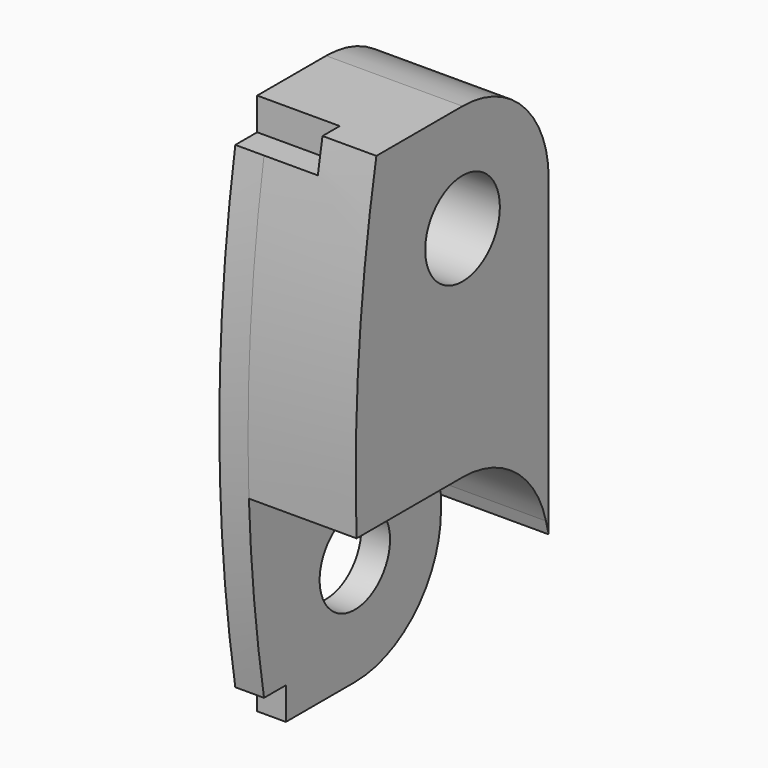
from build123d import *

# Parameters (mm, degrees)
SKETCH034_R          = 2.45
PAD017_DEPTH         = 1.6
SKETCH035_R          = 2.6
PAD018_DEPTH         = 6
SKETCH061_W          = 1.7771358599
SKETCH061_H          = 3.8
POCKET023_DEPTH      = 1.6
POCKET023_DEPTH_BACK = 3


with BuildPart() as part:
    # Sketch034 → Pad017 (new body)
    with BuildSketch(Plane.YZ.offset(8.7)):
        with BuildLine():
            ThreePointArc((-6, 6), (-7.4371881489, -9.1), (-6, -24.2))
            Line((-6, -24.2), (0, -24.2))
            ThreePointArc((0, -24.2), (4.2426406871, -22.4426406871), (6, -18.2))
            Line((6, 0), (6, -18.2))
            ThreePointArc((6, 0), (4.2426406871, 4.2426406871), (0, 6))
            Line((-6, 6), (0, 6))
        make_face()
        Circle(SKETCH034_R, mode=Mode.SUBTRACT)
        with Locations((0, -18.2)):
            Circle(SKETCH034_R, mode=Mode.SUBTRACT)
    extrude(amount=-PAD017_DEPTH)

    # Sketch035 → Pad018 (join)
    with BuildSketch(Plane.YZ.offset(8.7)):
        with BuildLine():
            ThreePointArc((5.8114989668, -16.707860677), (3.6774423219, -13.4590699257), (0, -12.2))
            Line((-7.3771358599, -12.2), (0, -12.2))
            ThreePointArc((-6, 6), (-7.2090239265, -3.0606187573), (-7.3771358599, -12.2))
            Line((-6, 6), (0, 6))
            ThreePointArc((6, 0), (4.2426406871, 4.2426406871), (0, 6))
            Line((6, 0), (6, -17.4420237293))
            Line((6, -17.4420237293), (5.8114989668, -16.707860677))
        make_face()
        Circle(SKETCH035_R, mode=Mode.SUBTRACT)
    extrude(amount=PAD018_DEPTH)

    # Sketch061 → Pocket023 (cut, two sides)
    with BuildSketch(Plane.YZ.offset(8.7)) as pocket023_sk:
        with BuildLine():
            ThreePointArc((-6.3244944235, -22.4), (-6.167388681, -23.3009268767), (-6, -24.2))
            Line((-6, -24.2), (-4.8, -24.2))
            Line((-4.8, -24.2), (-4.8, -22.4))
            Line((-4.8, -22.4), (-6.3244944235, -22.4))
        make_face()
        with Locations((-5.68856793, -9.1)):
            Rectangle(SKETCH061_W, SKETCH061_H)
        with BuildLine():
            Line((-6, 6), (-4.8, 6))
            Line((-4.8, 6), (-4.8, 4.2))
            Line((-4.8, 4.2), (-6.3244944235, 4.2))
            ThreePointArc((-6, 6), (-6.167388681, 5.1009268767), (-6.3244944235, 4.2))
        make_face()
    extrude(amount=-POCKET023_DEPTH, mode=Mode.SUBTRACT)
    extrude(pocket023_sk.sketch, amount=POCKET023_DEPTH_BACK, mode=Mode.SUBTRACT)


with BuildPart() as part_1:
    # Body016 placement: moved
    add(part.part.moved(Location((0, -72.6064407756, 0))))


solid = part_1.part
